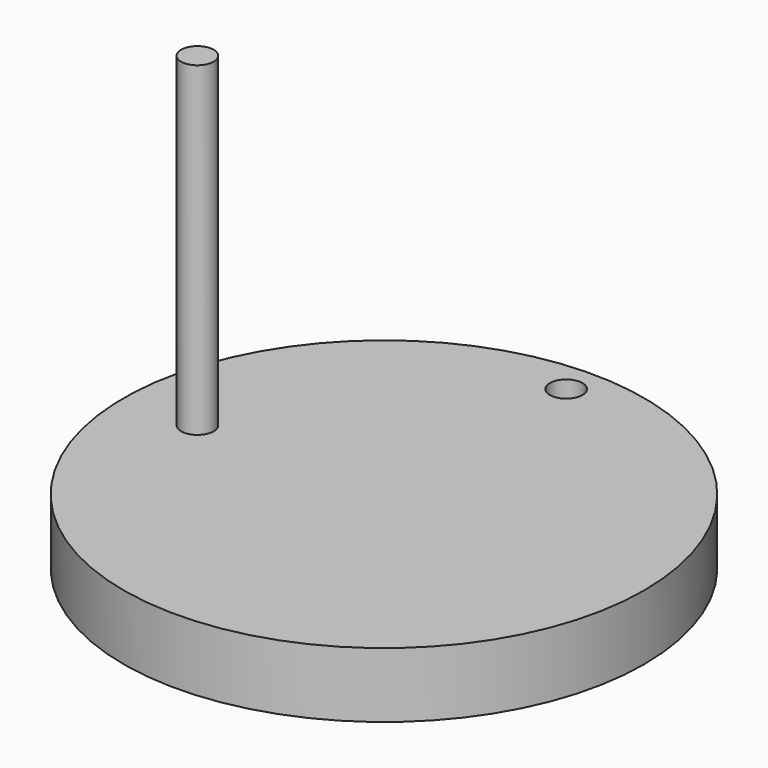
from build123d import *

# Parameters (mm, degrees)
F0_R     = 101.6
F1_DEPTH = 25.4
F3_D     = 12.7
F4_R     = 6.35
F5_DEPTH = 127


with BuildPart() as f1:
    # F0 (on Top) → F1 (new body)
    with BuildSketch(Plane.XY):
        Circle(F0_R)
    extrude(amount=F1_DEPTH)

    # F3 (through all)
    with Locations(Plane(origin=(0, 0, 0), x_dir=(1, 0, 0), z_dir=(0, 0, -1))):
        with Locations((0, -88.9)):
            Hole(F3_D / 2)

    # F4 (on face) → F5 (join)
    with BuildSketch(Plane.XY.offset(25.4)):
        with Locations((-72.815311, 0)):
            Circle(F4_R)
    extrude(amount=F5_DEPTH)


solid = f1.part
